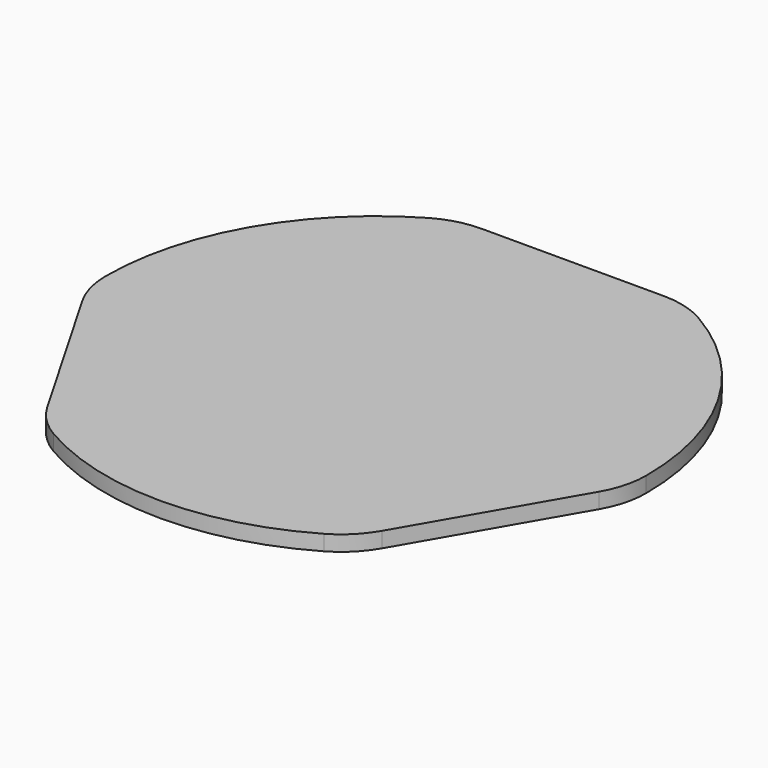
from build123d import *

# Parameters (mm, degrees)
F1_DEPTH = 1.6


with BuildPart() as f1:
    # F0 (on Top) → F1 (new body)
    with BuildSketch(Plane.XY):
        with BuildLine():
            ThreePointArc((-9.425, 25.474579), (-11.793194, 25.1628), (-14, 24.248711))
            ThreePointArc((-14, 24.248711), (-24.248711, 14), (-28, 0))
            ThreePointArc((-28, 0), (-27.688221, -2.368194), (-26.774132, -4.575))
            Line((-26.774132, -4.575), (-17.349132, -20.899579))
            ThreePointArc((-17.349132, -20.899579), (-15.895027, -22.794606), (-14, -24.248711))
            ThreePointArc((-14, -24.248711), (0, -28), (14, -24.248711))
            ThreePointArc((14, -24.248711), (15.895027, -22.794606), (17.349132, -20.899579))
            Line((17.349132, -20.899579), (26.774132, -4.575))
            ThreePointArc((26.774132, -4.575), (27.688221, -2.368194), (28, 0))
            ThreePointArc((28, 0), (24.248711, 14), (14, 24.248711))
            ThreePointArc((14, 24.248711), (11.793194, 25.1628), (9.425, 25.474579))
            Line((9.425, 25.474579), (-9.425, 25.474579))
        make_face()
    extrude(amount=F1_DEPTH)


solid = f1.part
